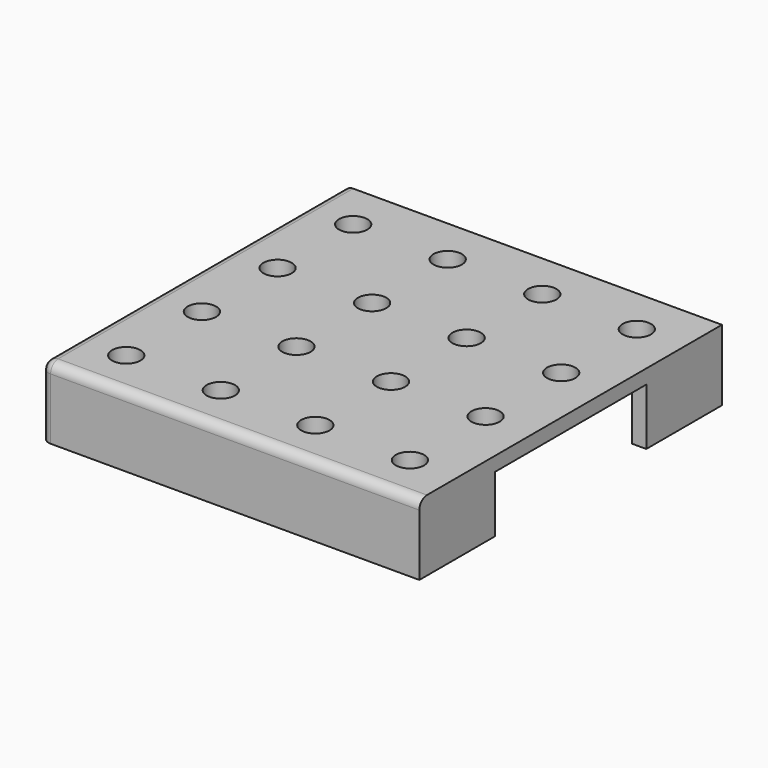
from build123d import *

# Parameters (mm, degrees)
SKETCH_W        = 80
SKETCH_H        = 80
PAD_DEPTH       = 15
POCKET_DEPTH    = 12
SKETCH006_R     = 5
PAD001_DEPTH    = 3
SKETCH004_R     = 1.7
POCKET001_DEPTH = 10
SKETCH009_R     = 3
POCKET002_DEPTH = 3.5
FILLET_R        = 2
FILLET001_R     = 1.5


with BuildPart() as part:
    # Sketch → Pad (new body)
    with BuildSketch(Plane.XY):
        with Locations((40, 40)):
            Rectangle(SKETCH_W, SKETCH_H)
    extrude(amount=PAD_DEPTH)

    # Sketch003 → Pocket (cut)
    with BuildSketch(Plane(origin=(0, 0, 0), x_dir=(1, 0, 0), z_dir=(0, 0, -1))):
        Polygon((3, -3), (77, -3), (77, -20), (80, -20), (80, -60), (77, -60), (77, -77), (60, -77), (60, -80), (20, -80), (20, -77), (3, -77), align=None)
    extrude(amount=-POCKET_DEPTH, mode=Mode.SUBTRACT)

    # Sketch006 → Pad001 (new body)
    with BuildSketch(Plane(origin=(0, 0, 12), x_dir=(1, 0, 0), z_dir=(0, 0, -1))):
        with Locations((10, -10)):
            Circle(SKETCH006_R)
        with Locations((30, -10)):
            Circle(SKETCH006_R)
        with Locations((50, -10)):
            Circle(SKETCH006_R)
        with Locations((70, -10)):
            Circle(SKETCH006_R)
        with Locations((10, -30)):
            Circle(SKETCH006_R)
        with Locations((30, -30)):
            Circle(SKETCH006_R)
        with Locations((50, -30)):
            Circle(SKETCH006_R)
        with Locations((70, -30)):
            Circle(SKETCH006_R)
        with Locations((10, -50)):
            Circle(SKETCH006_R)
        with Locations((30, -50)):
            Circle(SKETCH006_R)
        with Locations((50, -50)):
            Circle(SKETCH006_R)
        with Locations((70, -50)):
            Circle(SKETCH006_R)
        with Locations((10, -70)):
            Circle(SKETCH006_R)
        with Locations((30, -70)):
            Circle(SKETCH006_R)
        with Locations((50, -70)):
            Circle(SKETCH006_R)
        with Locations((70, -70)):
            Circle(SKETCH006_R)
    extrude(amount=PAD001_DEPTH)

    # Sketch004 → Pocket001 (cut)
    with BuildSketch(Plane.XY.offset(15)):
        with Locations((10, 10)):
            Circle(SKETCH004_R)
        with Locations((10, 30)):
            Circle(SKETCH004_R)
        with Locations((10, 50)):
            Circle(SKETCH004_R)
        with Locations((10, 70)):
            Circle(SKETCH004_R)
        with Locations((30, 10)):
            Circle(SKETCH004_R)
        with Locations((30, 30)):
            Circle(SKETCH004_R)
        with Locations((30, 50)):
            Circle(SKETCH004_R)
        with Locations((30, 70)):
            Circle(SKETCH004_R)
        with Locations((50, 10)):
            Circle(SKETCH004_R)
        with Locations((50, 30)):
            Circle(SKETCH004_R)
        with Locations((50, 50)):
            Circle(SKETCH004_R)
        with Locations((50, 70)):
            Circle(SKETCH004_R)
        with Locations((70, 10)):
            Circle(SKETCH004_R)
        with Locations((70, 30)):
            Circle(SKETCH004_R)
        with Locations((70, 50)):
            Circle(SKETCH004_R)
        with Locations((70, 70)):
            Circle(SKETCH004_R)
    extrude(amount=-POCKET001_DEPTH, mode=Mode.SUBTRACT)

    # Sketch009 → Pocket002 (cut)
    with BuildSketch(Plane.XY.offset(15)):
        with Locations((10, 10)):
            Circle(SKETCH009_R)
        with Locations((10, 30)):
            Circle(SKETCH009_R)
        with Locations((10, 50)):
            Circle(SKETCH009_R)
        with Locations((10, 70)):
            Circle(SKETCH009_R)
        with Locations((30, 10)):
            Circle(SKETCH009_R)
        with Locations((30, 30)):
            Circle(SKETCH009_R)
        with Locations((30, 50)):
            Circle(SKETCH009_R)
        with Locations((30, 70)):
            Circle(SKETCH009_R)
        with Locations((50, 10)):
            Circle(SKETCH009_R)
        with Locations((50, 30)):
            Circle(SKETCH009_R)
        with Locations((50, 50)):
            Circle(SKETCH009_R)
        with Locations((50, 70)):
            Circle(SKETCH009_R)
        with Locations((70, 10)):
            Circle(SKETCH009_R)
        with Locations((70, 30)):
            Circle(SKETCH009_R)
        with Locations((70, 50)):
            Circle(SKETCH009_R)
        with Locations((70, 70)):
            Circle(SKETCH009_R)
    extrude(amount=-POCKET002_DEPTH, mode=Mode.SUBTRACT)

    # Fillet
    fillet_edges = [part.edges().sort_by_distance(p)[0] for p in [
        (40, 0, 15),
        (0, 0, 7.5),
        (0, 40, 15),
    ]]
    fillet(fillet_edges, radius=FILLET_R)

    # Fillet001
    fillet001_edges = [part.edges().sort_by_distance(p)[0] for p in [
        (68.5, 77, 12),
        (77, 68.5, 12),
        (77, 11.5, 12),
        (40, 3, 12),
        (3, 40, 12),
        (11.5, 77, 12),
    ]]
    fillet(fillet001_edges, radius=FILLET001_R)


solid = part.part
